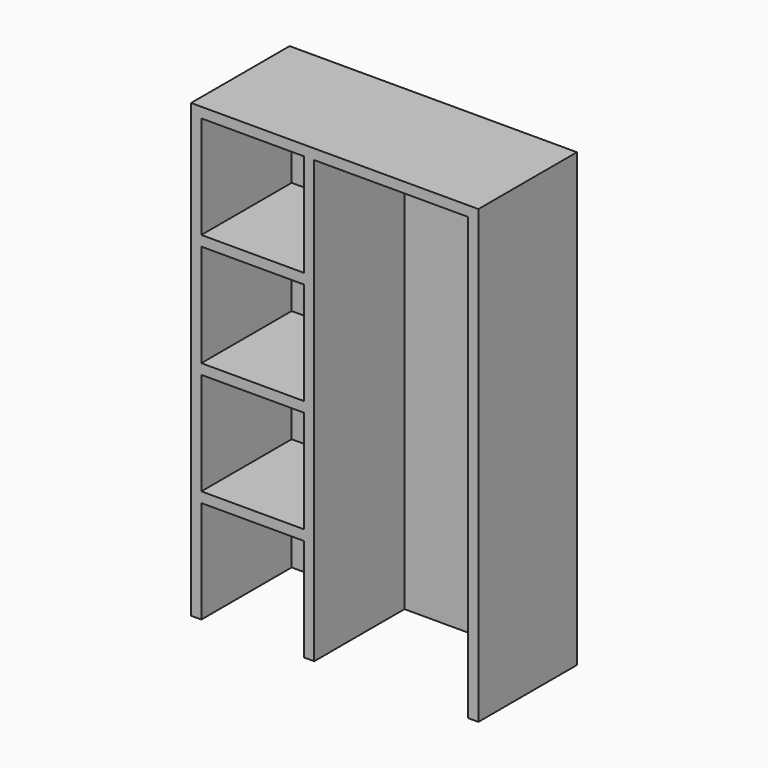
from build123d import *

# Parameters (mm, degrees)
BOX3570_W        = 750
BOX3570_H        = 550
BOX3570_DEPTH    = 2150
BOX3572_W        = 500
BOX3572_H        = 550
BOX3572_DEPTH    = 500
ARRAY290_Z_COUNT = 4
ARRAY290_Z_PITCH = 550
BOX3571_W        = 1400
BOX3571_H        = 600
BOX3571_DEPTH    = 2200


with BuildPart() as box3570:
    # Box3570 → Box3570 (new body)
    with BuildSketch(Plane(origin=(8100, -300, 0), x_dir=(1, 0, 0), z_dir=(0, 0, 1))):
        with Locations((375, 275)):
            Rectangle(BOX3570_W, BOX3570_H)
    extrude(amount=BOX3570_DEPTH)


with BuildPart() as array290:
    # Box3572 → Box3572 (new body)
    with BuildSketch(Plane(origin=(7550, -300, 0), x_dir=(1, 0, 0), z_dir=(0, 0, 1))):
        with Locations((250, 275)):
            Rectangle(BOX3572_W, BOX3572_H)
    extrude(amount=BOX3572_DEPTH)

    # Array290 Z: Array290 ×4


with BuildPart() as array290_1:
    add(array290.part)
    with Locations(*[(0, 0, i * ARRAY290_Z_PITCH) for i in range(1, ARRAY290_Z_COUNT)]):
        add(array290.part)


with BuildPart() as cut006:
    # Box3571 → Box3571 (new body)
    with BuildSketch(Plane(origin=(7500, -300, 0), x_dir=(1, 0, 0), z_dir=(0, 0, 1))):
        with Locations((700, 300)):
            Rectangle(BOX3571_W, BOX3571_H)
    extrude(amount=BOX3571_DEPTH)

    # Cut007: cut Array290
    add(array290_1.part, mode=Mode.SUBTRACT)

    # Cut006: cut Box3570
    add(box3570.part, mode=Mode.SUBTRACT)


with BuildPart() as cut006_1:
    # Cut006 placement: moved
    add(cut006.part.moved(Location((-100, 0, 0))))


solid = cut006_1.part
